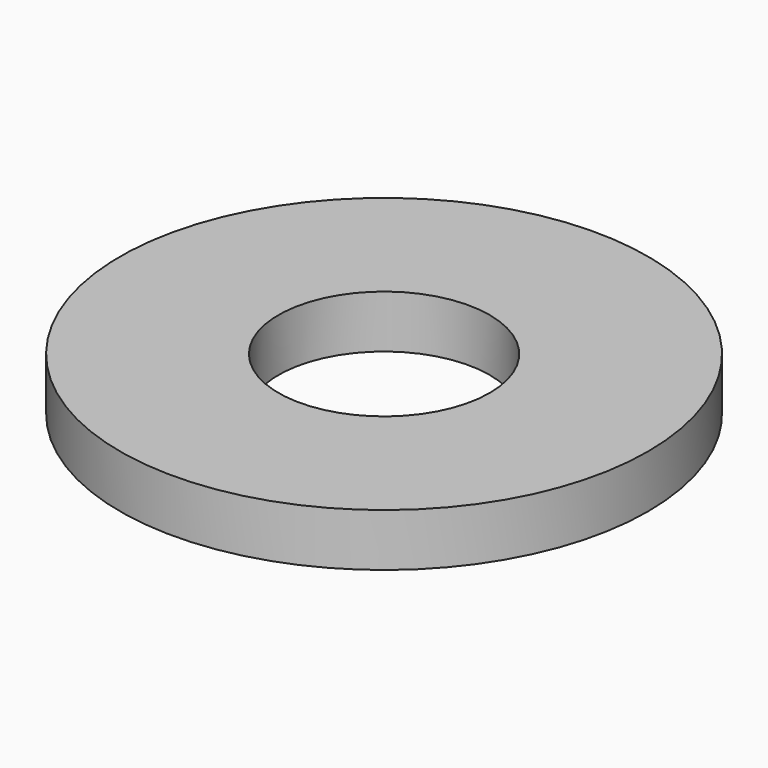
from build123d import *

# Parameters (mm, degrees)
SKETCH_R   = 4
SKETCH_R_2 = 1.6
PAD_DEPTH  = 0.8


with BuildPart() as part:
    # Sketch → Pad (new body)
    with BuildSketch(Plane.XY):
        Circle(SKETCH_R)
        Circle(SKETCH_R_2, mode=Mode.SUBTRACT)
    extrude(amount=PAD_DEPTH)


solid = part.part
